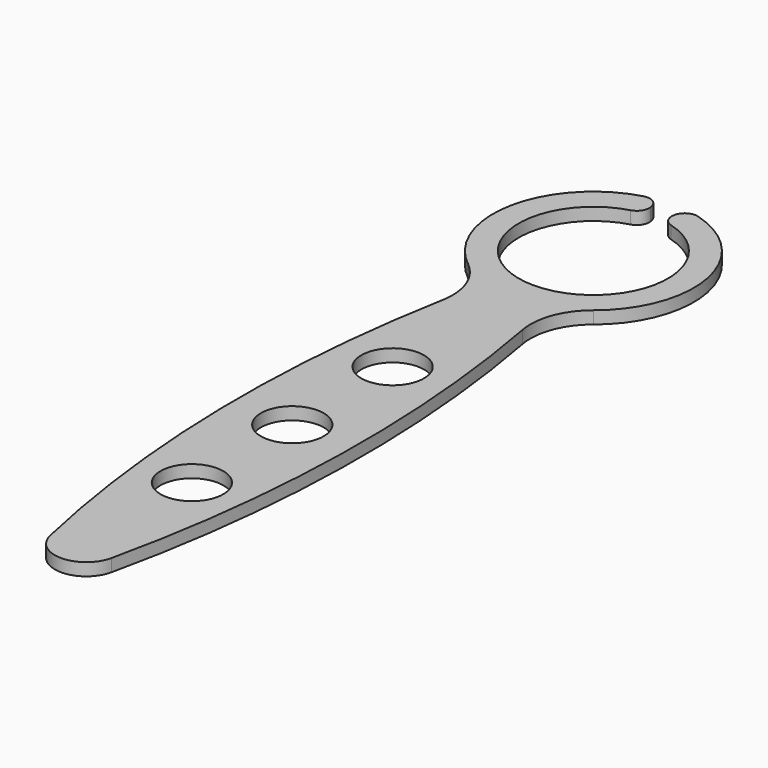
from build123d import *

# Parameters (mm, degrees)
F0_R     = 5
F1_DEPTH = 2
F2_R     = 10
F3_R     = 5
F4_R     = 2


with BuildPart() as f1:
    # F0 (on Top) → F1 (new body)
    with BuildSketch(Plane.XY):
        with BuildLine():
            ThreePointArc((1.553262, 11.798194), (0, -11.9), (-1.553262, 11.798194))
            Line((-1.553262, 11.798194), (-2.088419, 15.863118))
            ThreePointArc((-2.088419, 15.863118), (-15.93017, 1.493216), (-5, -15.198684))
            ThreePointArc((-5, -15.198684), (-9.494839, -67.933061), (0, -120))
            ThreePointArc((0, -120), (9.494839, -67.933061), (5, -15.198684))
            ThreePointArc((5, -15.198684), (15.93017, 1.493216), (2.088419, 15.863118))
            Line((2.088419, 15.863118), (1.553262, 11.798194))
        make_face()
        with Locations((0, -80)):
            Circle(F0_R, mode=Mode.SUBTRACT)
        with Locations((0, -60)):
            Circle(F0_R, mode=Mode.SUBTRACT)
        with Locations((0, -40)):
            Circle(F0_R, mode=Mode.SUBTRACT)
    extrude(amount=F1_DEPTH)

    # F2
    f2_edges = [f1.edges().sort_by_distance(p)[0] for p in [
        (5, -15.198684, 1),
        (-5, -15.198684, 1),
    ]]
    fillet(f2_edges, radius=F2_R)

    # F3
    f3_edges = [f1.edges().sort_by_distance(p)[0] for p in [
        (0, -120, 1),
    ]]
    fillet(f3_edges, radius=F3_R)

    # F4
    f4_edges = [f1.edges().sort_by_distance(p)[0] for p in [
        (-1.553262, 11.798194, 1),
        (1.553262, 11.798194, 1),
        (-2.088419, 15.863118, 1),
        (2.088419, 15.863118, 1),
    ]]
    fillet(f4_edges, radius=F4_R)


solid = f1.part
